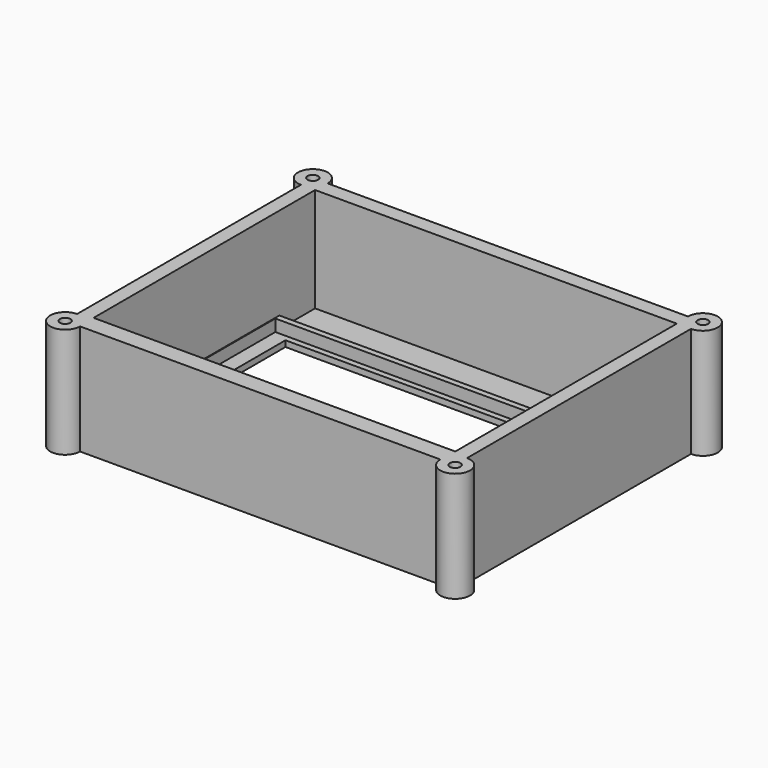
from build123d import *

# Parameters (mm, degrees)
F0_W     = 121
F0_H     = 76
F0_W_2   = 111
F0_H_2   = 67
F1_DEPTH = 2
F2_DEPTH = 6
F0_W_3   = 121.5
F0_H_3   = 15
F3_DEPTH = 2
F0_R     = 1.75
F4_DEPTH = 37


with BuildPart() as f1:
    # F0 (on Top) → F1 (new body)
    with BuildSketch(Plane.XY):
        with Locations((-8.830484, -22.025124)):
            Rectangle(F0_W, F0_H)
        with Locations((-8.830484, -19.525124)):
            Rectangle(F0_W_2, F0_H_2, mode=Mode.SUBTRACT)
    extrude(amount=F1_DEPTH)

    # F0 (on Top) → F2 (join)
    with BuildSketch(Plane.XY):
        Polygon((-69.580484, -60.025124), (-69.330484, -60.025124), (-69.330484, 15.974876), (51.669516, 15.974876), (51.669516, -60.025124), (51.919516, -60.025124), (51.919516, 17.974876), (-69.580484, 17.974876), align=None)
    extrude(amount=F2_DEPTH)

    # F0 (on Top) → F3 (join)
    with BuildSketch(Plane.XY):
        with Locations((-8.830484, 25.474876)):
            Rectangle(F0_W_3, F0_H_3)
    extrude(amount=F3_DEPTH)

    # F0 (on Top) → F4 (join)
    with BuildSketch(Plane.XY):
        with BuildLine():
            Line((-74.330484, 32.974876), (-69.580484, 32.974876))
            Line((-69.580484, 32.974876), (51.919516, 32.974876))
            Line((51.919516, 32.974876), (56.669516, 32.974876))
            ThreePointArc((56.669516, 32.974876), (60.20505, 41.51041), (51.669516, 37.974876))
            Line((51.669516, 37.974876), (-69.330484, 37.974876))
            ThreePointArc((-69.330484, 37.974876), (-70.796105, 41.511565), (-74.333752, 42.974875))
            ThreePointArc((-74.333752, 42.974875), (-79.330483, 37.973242), (-74.330484, 32.974876))
        make_face()
        with Locations((-74.330484, 37.974876)):
            Circle(F0_R, mode=Mode.SUBTRACT)
        with Locations((56.669516, 37.974876)):
            Circle(F0_R, mode=Mode.SUBTRACT)
        with BuildLine():
            Line((51.669516, -60.025124), (-69.330484, -60.025124))
            Line((-69.330484, -60.025124), (-69.580484, -60.025124))
            Line((-69.580484, -60.025124), (-69.580484, 17.974876))
            Line((-69.580484, 17.974876), (-69.580484, 32.974876))
            Line((-69.580484, 32.974876), (-74.330484, 32.974876))
            Line((-74.330484, 32.974876), (-74.330484, -61.025124))
            ThreePointArc((-74.330484, -61.025124), (-77.866018, -69.560658), (-69.330484, -66.025124))
            Line((-69.330484, -66.025124), (51.669516, -66.025124))
            ThreePointArc((51.669516, -66.025124), (60.20505, -69.560658), (56.669516, -61.025124))
            Line((56.669516, -61.025124), (56.669516, 32.974876))
            Line((56.669516, 32.974876), (51.919516, 32.974876))
            Line((51.919516, 32.974876), (51.919516, 17.974876))
            Line((51.919516, 17.974876), (51.919516, -60.025124))
            Line((51.919516, -60.025124), (51.669516, -60.025124))
        make_face()
        with Locations((-74.330484, -66.025124)):
            Circle(F0_R, mode=Mode.SUBTRACT)
        with Locations((56.669516, -66.025124)):
            Circle(F0_R, mode=Mode.SUBTRACT)
    extrude(amount=F4_DEPTH)


solid = f1.part
